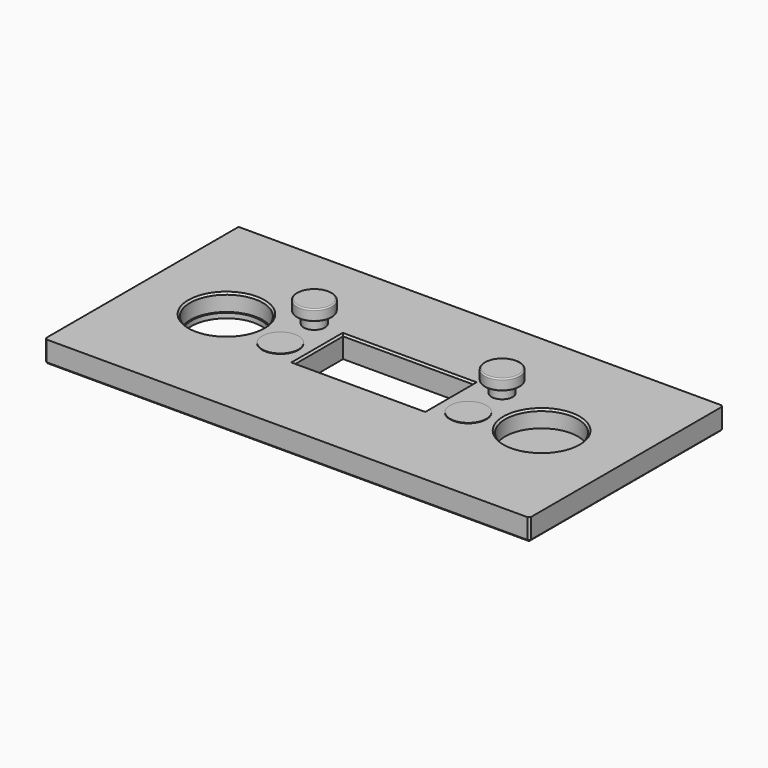
from build123d import *

# Parameters (mm, degrees)
F0_W     = 101.6
F0_H     = 50.8
F0_R     = 7.62
F0_R_2   = 3.81
F0_W_2   = 27.305
F0_H_2   = 12.7
F0_R_3   = 2.2225
F1_DEPTH = 4.572
F0_R_4   = 7.3025
F2_DEPTH = 1.016
F0_R_5   = 2.2174229623
F3_DEPTH = 6.858
F4_DEPTH = 4.6736
F5_R     = 3.683
F5_R_2   = 2.2225
F6_DEPTH = 2.286
F7_R     = 0.254
F8_SIZE  = 0.381


with BuildPart() as f1:
    # F0 (on Top) → F1 (new body)
    with BuildSketch(Plane.XY):
        Rectangle(F0_W, F0_H)
        with Locations((-33.02, 0)):
            Circle(F0_R, mode=Mode.SUBTRACT)
        with Locations((-19.685, -2.54)):
            Circle(F0_R_2, mode=Mode.SUBTRACT)
        Rectangle(F0_W_2, F0_H_2, mode=Mode.SUBTRACT)
        with Locations((19.685, -2.54)):
            Circle(F0_R_2, mode=Mode.SUBTRACT)
        with Locations((33.02, 0)):
            Circle(F0_R, mode=Mode.SUBTRACT)
        with Locations((-19.685, 6.35)):
            Circle(F0_R_3, mode=Mode.SUBTRACT)
        with Locations((19.685, 6.35)):
            Circle(F0_R_3, mode=Mode.SUBTRACT)
    extrude(amount=F1_DEPTH)

    # F0 (on Top) → F2 (join)
    with BuildSketch(Plane.XY):
        Rectangle(F0_W, F0_H)
        with Locations((-33.02, 0)):
            Circle(F0_R, mode=Mode.SUBTRACT)
        with Locations((-19.685, -2.54)):
            Circle(F0_R_2, mode=Mode.SUBTRACT)
        Rectangle(F0_W_2, F0_H_2, mode=Mode.SUBTRACT)
        with Locations((19.685, -2.54)):
            Circle(F0_R_2, mode=Mode.SUBTRACT)
        with Locations((33.02, 0)):
            Circle(F0_R, mode=Mode.SUBTRACT)
        with Locations((-19.685, 6.35)):
            Circle(F0_R_3, mode=Mode.SUBTRACT)
        with Locations((19.685, 6.35)):
            Circle(F0_R_3, mode=Mode.SUBTRACT)
        with Locations((33.02, 0)):
            Circle(F0_R)
        with Locations((-33.02, 0)):
            Circle(F0_R)
        with Locations((-33.02, 0)):
            Circle(F0_R_4, mode=Mode.SUBTRACT)
    extrude(amount=F2_DEPTH)

    # F0 (on Top) → F3 (join)
    with BuildSketch(Plane.XY):
        with Locations((19.685, 6.35)):
            Circle(F0_R_3)
        with Locations((19.685, 6.35)):
            Circle(F0_R_5, mode=Mode.SUBTRACT)
        with Locations((19.685, 6.35)):
            Circle(F0_R_5)
        with Locations((-19.685, 6.35)):
            Circle(F0_R_3)
    extrude(amount=F3_DEPTH)

    # F0 (on Top) → F4 (join)
    with BuildSketch(Plane.XY):
        with Locations((-19.685, -2.54)):
            Circle(F0_R_2)
        with Locations((19.685, -2.54)):
            Circle(F0_R_2)
    extrude(amount=F4_DEPTH)

    # F5 (on face) → F6 (join)
    with BuildSketch(Plane.XY.offset(6.858)):
        with Locations((19.685, 6.35)):
            Circle(F5_R)
        with Locations((19.685, 6.35)):
            Circle(F5_R_2, mode=Mode.SUBTRACT)
        with Locations((-19.685, 6.35)):
            Circle(F5_R)
        with Locations((19.685, 6.35)):
            Circle(F5_R_2)
    extrude(amount=F6_DEPTH)

    # F7
    f7_edges = [f1.edges().sort_by_distance(p)[0] for p in [
        (-23.368, 6.35, 9.144),
        (-16.002, 6.35, 8.001),
        (-23.368, 6.35, 6.858),
        (16.002, 6.35, 9.144),
        (16.002, 6.35, 6.858),
    ]]
    fillet(f7_edges, radius=F7_R)

    # F8
    f8_edges = [f1.edges().sort_by_distance(p)[0] for p in [
        (25.4, 0, 4.572),
        (-40.64, 0, 4.572),
        (50.8, 25.4, 2.286),
        (0, 25.4, 0),
        (50.8, 0, 0),
        (50.8, -25.4, 2.286),
        (0, -25.4, 0),
        (-50.8, -25.4, 2.286),
        (-50.8, 0, 0),
        (0, 6.35, 4.572),
        (-13.6525, 0, 4.572),
        (0, -6.35, 4.572),
        (13.6525, 0, 4.572),
    ]]
    chamfer(f8_edges, length=F8_SIZE)


solid = f1.part
